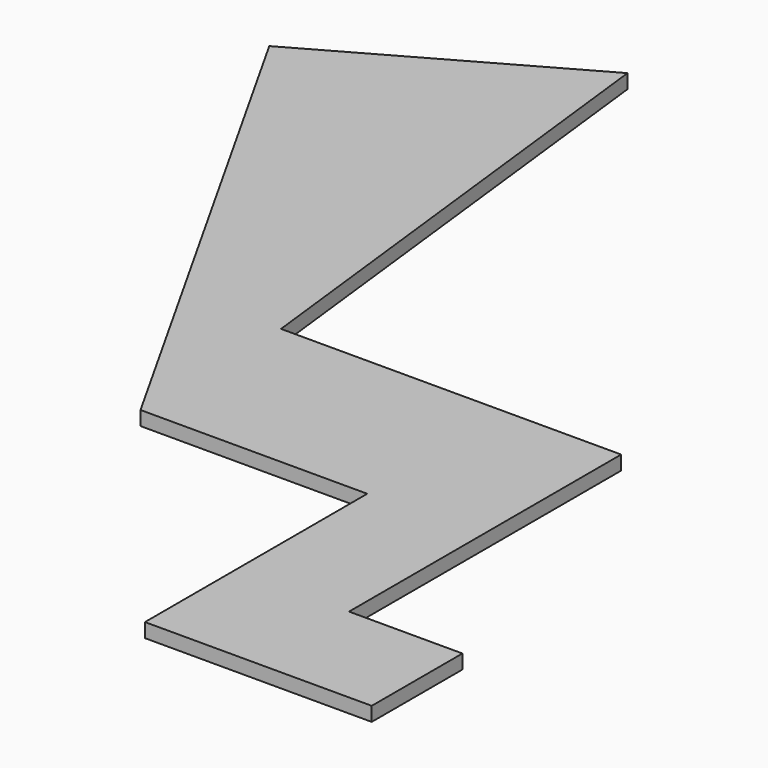
from build123d import *

# Parameters (mm, degrees)
F0_W     = 50.8
F0_H     = 39.350727
F1_DEPTH = 3.175


with BuildPart() as f1:
    # F0 (on Top) → F1 (new body)
    with BuildSketch(Plane.XY):
        Polygon((-116.915702, 175.547645), (-48.380403, 53.814319), (-48.380403, 93.165046), (-61.582371, 206.700054), align=None)
        Polygon((2.419597, 16.965046), (2.419597, -8.434954), (53.219597, -8.434954), (53.219597, 16.965046), (27.819597, 16.965046), align=None)
        Polygon((2.419597, 53.814319), (2.419597, 16.965046), (27.819597, 16.965046), (27.819597, 93.165046), (2.419597, 93.165046), align=None)
        with Locations((-22.980403, 73.489682)):
            Rectangle(F0_W, F0_H)
    extrude(amount=F1_DEPTH)


solid = f1.part
